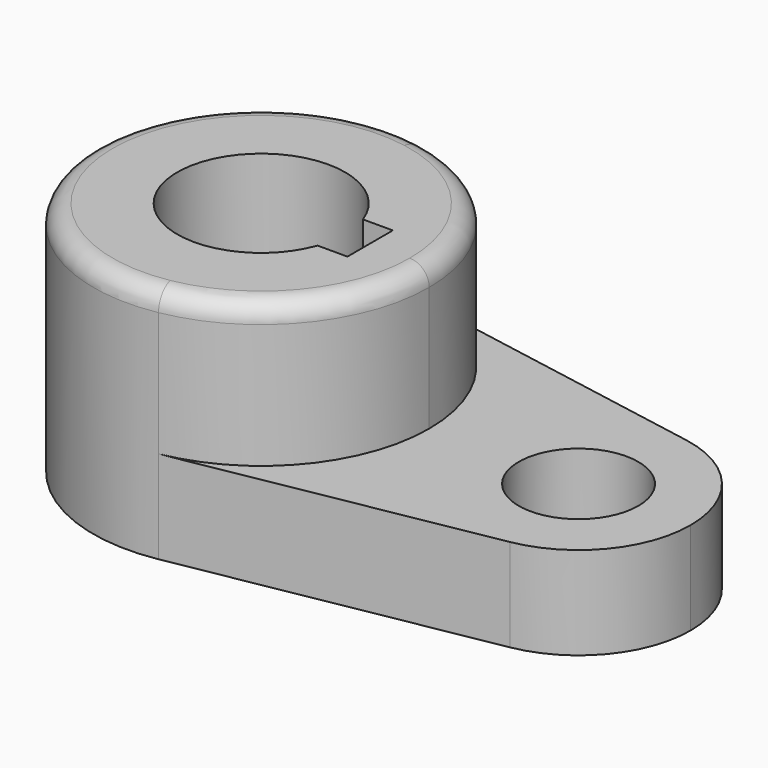
from build123d import *

# Parameters (mm, degrees)
F0_R     = 10.16
F1_DEPTH = 15.7734
F2_DEPTH = 40.2336
F3_R     = 3.302


with BuildPart() as f1:
    # F0 (on Top) → F1 (new body)
    with BuildSketch(Plane.XY):
        with BuildLine():
            ThreePointArc((-21.944853, 28.126541), (-5.071475, 18.336262), (1.5875, 0))
            ThreePointArc((1.5875, 0), (-5.071475, -18.336262), (-21.944853, -28.126541))
            Line((-21.944853, -28.126541), (30.349265, -18.751028))
            ThreePointArc((30.349265, -18.751028), (7.9375, 0), (30.349265, 18.751028))
            Line((30.349265, 18.751028), (-21.944853, 28.126541))
        make_face()
        with BuildLine():
            ThreePointArc((46.0375, 0), (41.598183, 12.224174), (30.349265, 18.751028))
            ThreePointArc((30.349265, 18.751028), (7.9375, 0), (30.349265, -18.751028))
            ThreePointArc((30.349265, -18.751028), (41.598183, -12.224174), (46.0375, 0))
        make_face()
        with Locations((26.9875, 0)):
            Circle(F0_R, mode=Mode.SUBTRACT)
    extrude(amount=F1_DEPTH)

    # F0 (on Top) → F2 (join)
    with BuildSketch(Plane.XY):
        with BuildLine():
            ThreePointArc((-21.944853, -28.126541), (-5.071475, -18.336262), (1.5875, 0))
            ThreePointArc((1.5875, 0), (-5.071475, 18.336262), (-21.944853, 28.126541))
            ThreePointArc((-21.944853, 28.126541), (-55.5625, 0), (-21.944853, -28.126541))
        make_face()
        with BuildLine():
            ThreePointArc((-13.539735, -4.826), (-41.275, 0), (-13.539735, 4.826))
            Line((-13.539735, 4.826), (-8.4582, 4.826))
            Line((-8.4582, 4.826), (-8.4582, -4.826))
            Line((-8.4582, -4.826), (-13.539735, -4.826))
        make_face(mode=Mode.SUBTRACT)
    extrude(amount=F2_DEPTH)

    # F3
    f3_edges = [f1.edges().sort_by_distance(p)[0] for p in [
        (-32.030147, 28.126541, 40.2336),
    ]]
    fillet(f3_edges, radius=F3_R)


solid = f1.part
